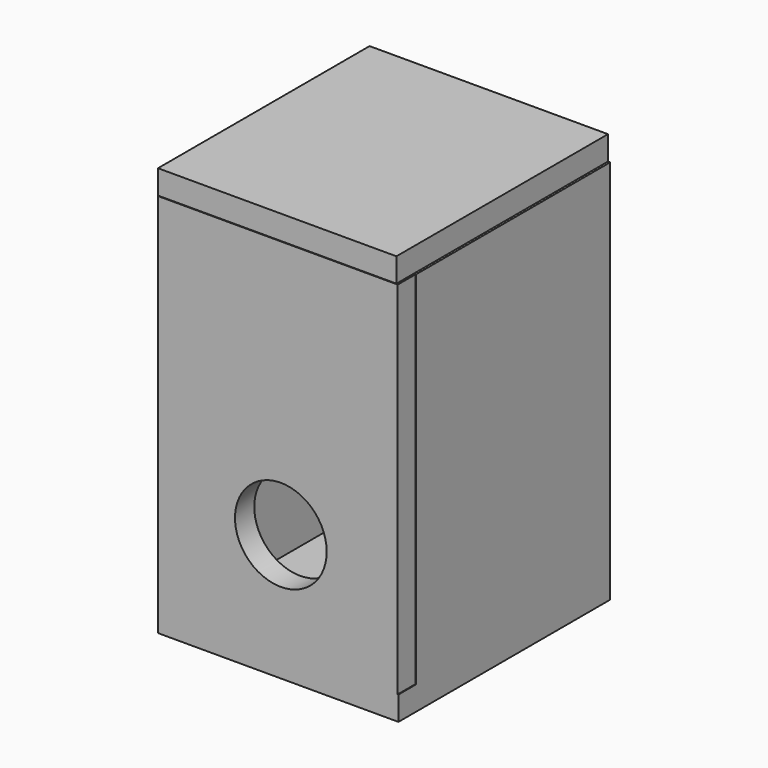
from build123d import *

# Parameters (mm, degrees)
F0_W      = 200
F0_H      = 300
F1_DEPTH  = 1.5
F2_W      = 20
F2_H      = 300
F3_DEPTH  = 200
F4_W      = 20
F4_H      = 300
F5_DEPTH  = 200
F6_W      = 199.424341321
F6_H      = 299.7533082962
F7_DEPTH  = 20
F9_W      = 198.1611847878
F9_H      = 219.8059260845
F10_DEPTH = 20
F11_W     = 200
F11_H     = 220
F12_DEPTH = 20
F13_R     = 38.1050822629
F14_DEPTH = 20


with BuildPart() as f1:
    # F0 (on Front) → F1 (new body)
    with BuildSketch(Plane.XZ):
        with Locations((100, 150)):
            Rectangle(F0_W, F0_H)
    extrude(amount=F1_DEPTH)

    # F2 (on Front) → F3 (join)
    with BuildSketch(Plane.XZ):
        with Locations((10, 150)):
            Rectangle(F2_W, F2_H)
    extrude(amount=F3_DEPTH)

    # F4 (on face) → F5 (join)
    with BuildSketch(Plane.XZ.offset(1.5)):
        with Locations((190, 150)):
            Rectangle(F4_W, F4_H)
    extrude(amount=F5_DEPTH)

    # F6 (on face) → F7 (join)
    with BuildSketch(Plane.XZ.offset(200)):
        with Locations((99.7121706605, 149.8766541481)):
            Rectangle(F6_W, F6_H)
    extrude(amount=F7_DEPTH)

    # F9 (on face) → F10 (join)
    with BuildSketch(Plane.XY.offset(300)):
        with Locations((99.0805923939, -109.9029630423)):
            Rectangle(F9_W, F9_H)
    extrude(amount=F10_DEPTH)

    # F11 (on face) → F12 (join)
    with BuildSketch(Plane(origin=(0, 0, 0), x_dir=(1, 0, 0), z_dir=(0, 0, -1))):
        with Locations((100, 110)):
            Rectangle(F11_W, F11_H)
    extrude(amount=F12_DEPTH)

    # F13 (on face) → F14 (cut)
    with BuildSketch(Plane.XZ.offset(220)):
        with Locations((102.2598743439, 85.0789397955)):
            Circle(F13_R)
    extrude(amount=-F14_DEPTH, mode=Mode.SUBTRACT)


solid = f1.part
